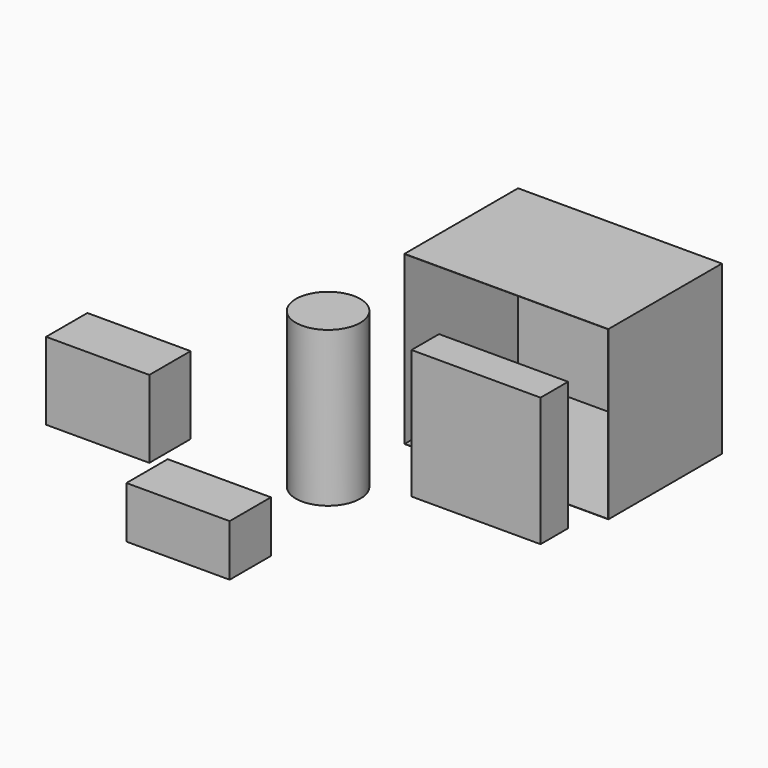
from build123d import *

# Parameters (mm, degrees)
F0_W      = 2407.92
F0_H      = 1676.4
F1_DEPTH  = 1978.152
F2_T      = -3.048
F3_R      = 381
F4_DEPTH  = 1828.8
F5_W      = 1524
F5_H      = 406.4
F6_DEPTH  = 1524
F7_W      = 1219.2
F7_H      = 609.6
F8_DEPTH  = 914.4
F9_W      = 1219.2
F9_H      = 609.6
F10_DEPTH = 609.6


with BuildPart() as f1:
    # F0 (on Top) → F1 (new body)
    with BuildSketch(Plane.XY):
        Rectangle(F0_W, F0_H)
    extrude(amount=F1_DEPTH)

    # F2
    f2_openings = [f1.faces().sort_by_distance(p)[0] for p in [
        (0, -838.2, 989.076),
    ]]
    offset(amount=F2_T, openings=f2_openings)


with BuildPart() as f4:
    # F3 (on face) → F4 (new body)
    with BuildSketch(Plane.XY.offset(3.048)):
        with Locations((-1217.756987, -1948.867798)):
            Circle(F3_R)
    extrude(amount=F4_DEPTH)


with BuildPart() as f6:
    # F5 (on face) → F6 (new body)
    with BuildSketch(Plane.XY.offset(3.048)):
        with Locations((267.393768, -1418.047018)):
            Rectangle(F5_W, F5_H)
    extrude(amount=F6_DEPTH)


with BuildPart() as f8:
    # F7 (on face) → F8 (new body)
    with BuildSketch(Plane.XY.offset(1831.848)):
        with Locations((-1218.014717, -5045.084658)):
            Rectangle(F7_W, F7_H)
    extrude(amount=F8_DEPTH)


with BuildPart() as f10:
    # F9 (on face) → F10 (new body)
    with BuildSketch(Plane.XY.offset(3.048)):
        with Locations((-1375.808954, -3661.86494)):
            Rectangle(F9_W, F9_H)
    extrude(amount=F10_DEPTH)


solid = Compound([f1.part, f4.part, f6.part, f8.part, f10.part])
